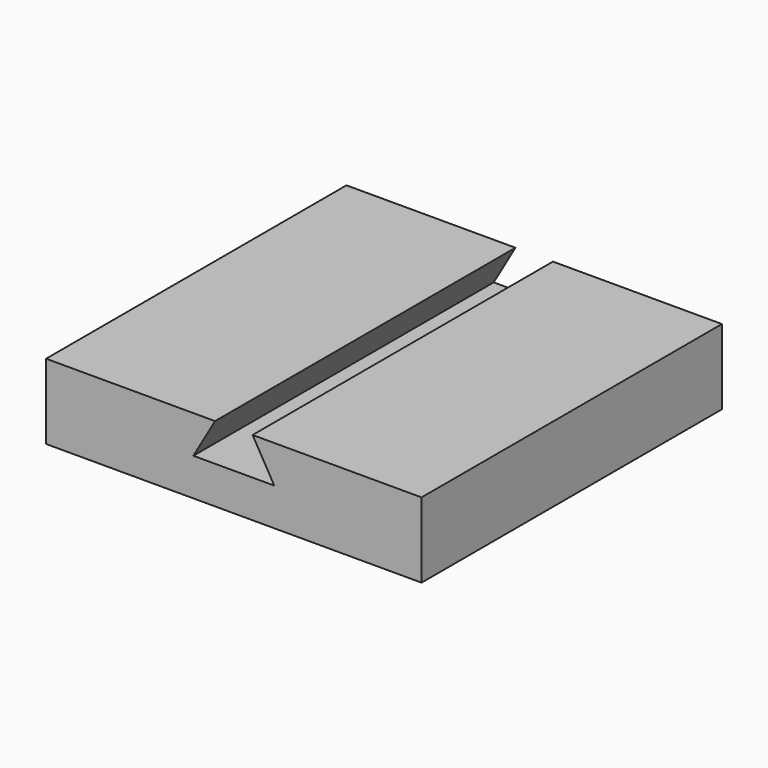
from build123d import *

# Parameters (mm, degrees)
F0_W     = 100
F0_H     = 100
F1_DEPTH = 20
F3_DEPTH = 100.001


with BuildPart() as f1:
    # F0 (on Top) → F1 (new body)
    with BuildSketch(Plane.XY):
        Rectangle(F0_W, F0_H)
    extrude(amount=-F1_DEPTH)

    # F2 (on face) → F3 (cut, through all)
    with BuildSketch(Plane.XZ.offset(50)):
        Polygon((10.773503, -10), (5, 0), (5, 5), (-5, 5), (-5, 0), (-10.773503, -10), align=None)
    extrude(amount=-F3_DEPTH, mode=Mode.SUBTRACT)


solid = f1.part
